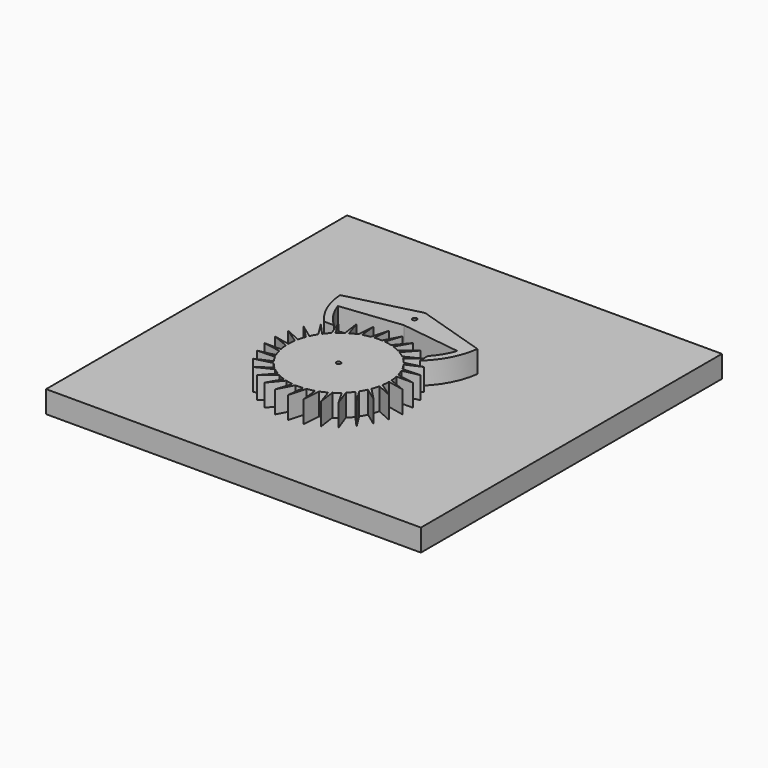
from build123d import *

# Parameters (mm, degrees)
F0_R     = 2.5
F1_DEPTH = 25
F2_R     = 2.5
F3_DEPTH = 25
F4_W     = 424.682841
F4_H     = 426.312059
F4_R     = 2.5
F5_DEPTH = 25


with BuildPart() as f1:
    # F0 (on Top) → F1 (new body)
    with BuildSketch(Plane.XY):
        with BuildLine():
            Line((-75.869934, 4.444455), (-57.421198, -3.009317))
            ThreePointArc((-57.421198, -3.009317), (-57.042647, -7.237843), (-56.353134, -11.426913))
            Line((-56.353134, -11.426913), (-75.136048, -11.426913))
            Line((-75.136048, -11.426913), (-55.540735, -14.882095))
            ThreePointArc((-55.540735, -14.882095), (-54.291296, -18.939512), (-52.745894, -22.893683))
            Line((-52.745894, -22.893683), (-71.118356, -26.79887))
            Line((-71.118356, -26.79887), (-51.232875, -26.104454))
            ThreePointArc((-51.232875, -26.104454), (-49.167155, -29.813434), (-46.833405, -33.359889))
            Line((-46.833405, -33.359889), (-63.992451, -40.999588))
            Line((-63.992451, -40.999588), (-44.685893, -36.185922))
            ThreePointArc((-44.685893, -36.185922), (-41.894174, -39.384365), (-38.874072, -42.368107))
            Line((-38.874072, -42.368107), (-54.069769, -53.408427))
            Line((-54.069769, -53.408427), (-36.185922, -44.685893))
            ThreePointArc((-36.185922, -44.685893), (-32.790215, -47.234011), (-29.215755, -49.524637))
            Line((-29.215755, -49.524637), (-41.783978, -63.483062))
            Line((-41.783978, -63.483062), (-26.104454, -51.232875))
            ThreePointArc((-26.104454, -51.232875), (-22.253167, -53.019303), (-18.28057, -54.516702))
            Line((-18.28057, -54.516702), (-27.672027, -70.783182))
            Line((-27.672027, -70.783182), (-14.882095, -55.540735))
            ThreePointArc((-14.882095, -55.540735), (-10.743549, -56.487398), (-6.546436, -57.126125))
            Line((-6.546436, -57.126125), (-12.350676, -74.989738))
            Line((-12.350676, -74.989738), (-3.009317, -57.421198))
            ThreePointArc((-3.009317, -57.421198), (1.235613, -57.486722), (5.473808, -57.238863))
            Line((5.473808, -57.238863), (3.510459, -75.918882))
            Line((3.510459, -75.918882), (8.994982, -56.79208))
            ThreePointArc((8.994982, -56.79208), (13.160774, -55.973601), (17.254821, -54.849988))
            Line((17.254821, -54.849988), (19.218171, -73.530007))
            Line((19.218171, -73.530007), (20.606157, -53.680875))
            ThreePointArc((20.606157, -53.680875), (24.510746, -52.014165), (28.281716, -50.063905))
            Line((28.281716, -50.063905), (34.085955, -67.927518))
            Line((34.085955, -67.927518), (31.316745, -48.223558))
            ThreePointArc((31.316745, -48.223558), (34.78948, -45.78146), (38.072564, -43.089789))
            Line((38.072564, -43.089789), (47.464021, -59.35627))
            Line((47.464021, -59.35627), (40.65864, -40.65864))
            ThreePointArc((40.65864, -40.65864), (43.547747, -37.547886), (46.199458, -34.232443))
            Line((46.199458, -34.232443), (58.76768, -48.190868))
            Line((58.76768, -48.190868), (48.223558, -31.316745))
            ThreePointArc((48.223558, -31.316745), (50.402769, -27.673289), (52.307214, -23.878974))
            Line((52.307214, -23.878974), (67.50291, -34.919294))
            Line((67.50291, -34.919294), (53.680875, -20.606157))
            ThreePointArc((53.680875, -20.606157), (55.054948, -16.589236), (56.128893, -12.48188))
            Line((56.128893, -12.48188), (73.287939, -20.12158))
            Line((73.287939, -20.12158), (56.79208, -8.994982))
            ThreePointArc((56.79208, -8.994982), (57.300961, -4.780154), (57.497471, -0.539268))
            Line((57.497471, -0.539268), (75.869934, -4.444455))
            Line((75.869934, -4.444455), (57.421198, 3.009317))
            ThreePointArc((57.421198, 3.009317), (57.042647, 7.237843), (56.353134, 11.426913))
            Line((56.353134, 11.426913), (75.136048, 11.426913))
            Line((75.136048, 11.426913), (55.540735, 14.882095))
            ThreePointArc((55.540735, 14.882095), (54.291296, 18.939512), (52.745894, 22.893683))
            Line((52.745894, 22.893683), (71.118356, 26.79887))
            Line((71.118356, 26.79887), (51.232875, 26.104454))
            ThreePointArc((51.232875, 26.104454), (49.167155, 29.813434), (46.833405, 33.359889))
            Line((46.833405, 33.359889), (63.992451, 40.999588))
            Line((63.992451, 40.999588), (44.685893, 36.185922))
            ThreePointArc((44.685893, 36.185922), (41.894174, 39.384365), (38.874072, 42.368107))
            Line((38.874072, 42.368107), (54.069769, 53.408427))
            Line((54.069769, 53.408427), (36.185922, 44.685893))
            ThreePointArc((36.185922, 44.685893), (32.790215, 47.234011), (29.215755, 49.524637))
            Line((29.215755, 49.524637), (41.783978, 63.483062))
            Line((41.783978, 63.483062), (26.104454, 51.232875))
            ThreePointArc((26.104454, 51.232875), (22.253167, 53.019303), (18.28057, 54.516702))
            Line((18.28057, 54.516702), (27.672027, 70.783182))
            Line((27.672027, 70.783182), (14.882095, 55.540735))
            ThreePointArc((14.882095, 55.540735), (10.743549, 56.487398), (6.546436, 57.126125))
            Line((6.546436, 57.126125), (12.350676, 74.989738))
            Line((12.350676, 74.989738), (3.009317, 57.421198))
            ThreePointArc((3.009317, 57.421198), (-1.235613, 57.486722), (-5.473808, 57.238863))
            Line((-5.473808, 57.238863), (-3.510459, 75.918882))
            Line((-3.510459, 75.918882), (-8.994982, 56.79208))
            ThreePointArc((-8.994982, 56.79208), (-13.160774, 55.973601), (-17.254821, 54.849988))
            Line((-17.254821, 54.849988), (-19.218171, 73.530007))
            Line((-19.218171, 73.530007), (-20.606157, 53.680875))
            ThreePointArc((-20.606157, 53.680875), (-24.510746, 52.014165), (-28.281716, 50.063905))
            Line((-28.281716, 50.063905), (-34.085955, 67.927518))
            Line((-34.085955, 67.927518), (-31.316745, 48.223558))
            ThreePointArc((-31.316745, 48.223558), (-34.78948, 45.78146), (-38.072564, 43.089789))
            Line((-38.072564, 43.089789), (-47.464021, 59.35627))
            Line((-47.464021, 59.35627), (-40.65864, 40.65864))
            ThreePointArc((-40.65864, 40.65864), (-43.547747, 37.547886), (-46.199458, 34.232443))
            Line((-46.199458, 34.232443), (-58.76768, 48.190868))
            Line((-58.76768, 48.190868), (-48.223558, 31.316745))
            ThreePointArc((-48.223558, 31.316745), (-50.402769, 27.673289), (-52.307214, 23.878974))
            Line((-52.307214, 23.878974), (-67.50291, 34.919294))
            Line((-67.50291, 34.919294), (-53.680875, 20.606157))
            ThreePointArc((-53.680875, 20.606157), (-55.054948, 16.589236), (-56.128893, 12.48188))
            Line((-56.128893, 12.48188), (-73.287939, 20.12158))
            Line((-73.287939, 20.12158), (-56.79208, 8.994982))
            ThreePointArc((-56.79208, 8.994982), (-57.300961, 4.780154), (-57.497471, 0.539268))
            Line((-57.497471, 0.539268), (-75.869934, 4.444455))
        make_face()
        Circle(F0_R, mode=Mode.SUBTRACT)
    extrude(amount=F1_DEPTH)


with BuildPart() as f3:
    # F2 (on Top) → F3 (new body)
    with BuildSketch(Plane.XY):
        with BuildLine():
            ThreePointArc((-80.134451, 102.122741), (-73.976689, 76.212317), (-59.684445, 53.740115))
            Line((-59.684445, 53.740115), (-48.387817, 53.740115))
            ThreePointArc((-48.387817, 53.740115), (-60.495918, 67.86174), (-68.601024, 84.604908))
            Line((-68.601024, 84.604908), (0, 92.480231))
            Line((0, 92.480231), (67.748369, 83.347222))
            ThreePointArc((67.748369, 83.347222), (61.772799, 70.651371), (53.445721, 59.357487))
            Line((53.445721, 59.357487), (53.445721, 48.122744))
            ThreePointArc((53.445721, 48.122744), (70.796981, 70.499913), (79.250519, 97.524747))
            Line((79.250519, 97.524747), (0, 122.480231))
            Line((0, 122.480231), (-80.134451, 102.122741))
        make_face()
        with Locations((0, 107.480231)):
            Circle(F2_R, mode=Mode.SUBTRACT)
    extrude(amount=F3_DEPTH)


with BuildPart() as f5:
    # F4 (on Top) → F5 (new body)
    with BuildSketch(Plane.XY):
        with Locations((11.625298, 49.673393)):
            Rectangle(F4_W, F4_H)
        Circle(F4_R, mode=Mode.SUBTRACT)
        with Locations((0, 107.480231)):
            Circle(F4_R, mode=Mode.SUBTRACT)
    extrude(amount=-F5_DEPTH)


solid = Compound([f1.part, f3.part, f5.part])
